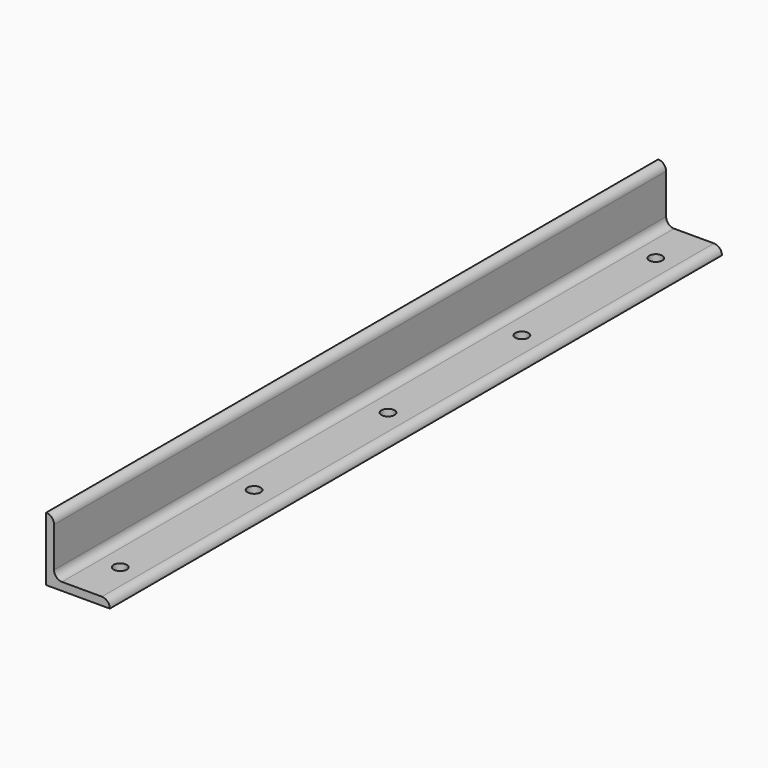
from build123d import *

# Parameters (mm, degrees)
F1_DEPTH = 304.8
F2_R     = 2.6162
F3_DEPTH = 3.176


with BuildPart() as f1:
    # F0 (on Front) → F1 (new body)
    with BuildSketch(Plane.XZ):
        with BuildLine():
            Line((-25.4, 0), (0, 0))
            ThreePointArc((0, 0), (-0.929936, 2.245064), (-3.175, 3.175))
            Line((-3.175, 3.175), (-19.05, 3.175))
            ThreePointArc((-19.05, 3.175), (-21.295064, 4.104936), (-22.225, 6.35))
            Line((-22.225, 6.35), (-22.225, 22.225))
            ThreePointArc((-22.225, 22.225), (-23.154936, 24.470064), (-25.4, 25.4))
            Line((-25.4, 25.4), (-25.4, 0))
        make_face()
    extrude(amount=F1_DEPTH)

    # F2 (on face) → F3 (cut, through all)
    with BuildSketch(Plane.XY.offset(3.175)):
        with Locations((-11.1125, -285.75)):
            Circle(F2_R)
        with Locations((-11.1125, -19.05)):
            Circle(F2_R)
        with Locations((-11.1125, -219.075)):
            Circle(F2_R)
        with Locations((-11.1125, -152.4)):
            Circle(F2_R)
        with Locations((-11.1125, -85.725)):
            Circle(F2_R)
    extrude(amount=-F3_DEPTH, mode=Mode.SUBTRACT)


solid = f1.part
